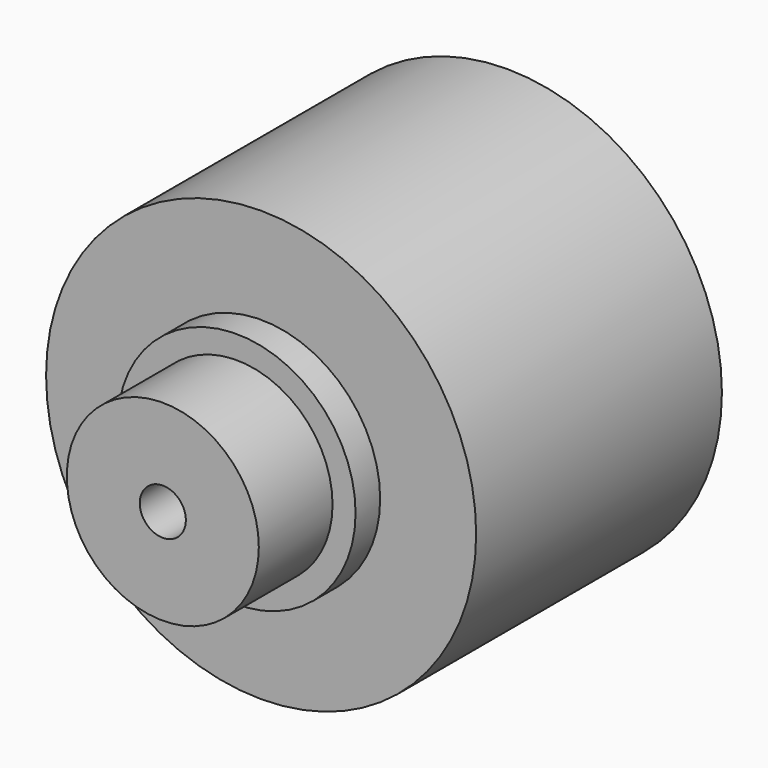
from build123d import *

# Parameters (mm, degrees)
F0_R     = 12.5
F0_R_2   = 3
F1_DEPTH = 56
F0_R_3   = 15.5
F2_DEPTH = 44
F0_R_4   = 28
F3_DEPTH = 40


with BuildPart() as f1:
    # F0 (on Front) → F1 (new body)
    with BuildSketch(Plane.XZ):
        Circle(F0_R)
        Circle(F0_R_2, mode=Mode.SUBTRACT)
    extrude(amount=F1_DEPTH)

    # F0 (on Front) → F2 (join)
    with BuildSketch(Plane.XZ):
        Circle(F0_R_3)
        Circle(F0_R, mode=Mode.SUBTRACT)
    extrude(amount=F2_DEPTH)

    # F0 (on Front) → F3 (join)
    with BuildSketch(Plane.XZ):
        Circle(F0_R_4)
        Circle(F0_R_3, mode=Mode.SUBTRACT)
    extrude(amount=F3_DEPTH)


solid = f1.part
